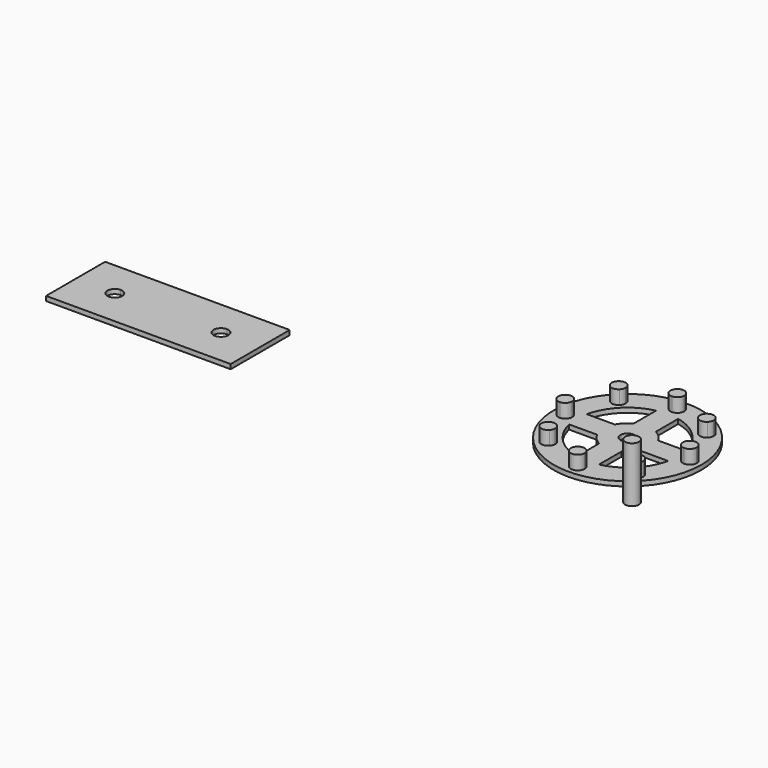
from build123d import *

# Parameters (mm, degrees)
F0_R      = 50.8
F0_R_2    = 4.826
F1_DEPTH  = 3.175
F3_DEPTH  = 3.175
F2_R      = 4.7625
F4_DEPTH  = 38.1
F6_DEPTH  = 9.525
F8_DEPTH  = 3.175
F11_DEPTH = 3.175


with BuildPart() as f1:
    # F0 (on Top) → F1 (new body)
    with BuildSketch(Plane.XY):
        Circle(F0_R)
        with BuildLine():
            ThreePointArc((-7.62, -34.0835917268), (-24.6957043329, -24.6957043329), (-34.0835917268, -7.62))
            Line((-34.0835917268, -7.62), (-14.8446440983, -7.62))
            ThreePointArc((-14.8446440983, -7.62), (-11.7988952535, -11.7988952535), (-7.62, -14.8446440983))
            Line((-7.62, -14.8446440983), (-7.62, -34.0835917268))
        make_face(mode=Mode.SUBTRACT)
        Circle(F0_R_2, mode=Mode.SUBTRACT)
        with BuildLine():
            Line((7.62, -34.0835917268), (7.62, -14.8446440983))
            ThreePointArc((7.62, -14.8446440983), (11.7988952535, -11.7988952535), (14.8446440983, -7.62))
            Line((14.8446440983, -7.62), (34.0835917268, -7.62))
            ThreePointArc((34.0835917268, -7.62), (24.6957043329, -24.6957043329), (7.62, -34.0835917268))
        make_face(mode=Mode.SUBTRACT)
        with BuildLine():
            Line((-7.62, 34.0835917268), (-7.62, 14.8446440983))
            ThreePointArc((-7.62, 14.8446440983), (-11.7988952535, 11.7988952535), (-14.8446440983, 7.62))
            Line((-14.8446440983, 7.62), (-34.0835917268, 7.62))
            ThreePointArc((-34.0835917268, 7.62), (-24.6957043329, 24.6957043329), (-7.62, 34.0835917268))
        make_face(mode=Mode.SUBTRACT)
        with BuildLine():
            ThreePointArc((7.62, 34.0835917268), (24.6957043329, 24.6957043329), (34.0835917268, 7.62))
            Line((34.0835917268, 7.62), (14.8446440983, 7.62))
            ThreePointArc((14.8446440983, 7.62), (11.7988952535, 11.7988952535), (7.62, 14.8446440983))
            Line((7.62, 14.8446440983), (7.62, 34.0835917268))
        make_face(mode=Mode.SUBTRACT)
        Circle(F0_R)
        with BuildLine():
            ThreePointArc((-7.62, -34.0835917268), (-24.6957043329, -24.6957043329), (-34.0835917268, -7.62))
            Line((-34.0835917268, -7.62), (-14.8446440983, -7.62))
            ThreePointArc((-14.8446440983, -7.62), (-11.7988952535, -11.7988952535), (-7.62, -14.8446440983))
            Line((-7.62, -14.8446440983), (-7.62, -34.0835917268))
        make_face(mode=Mode.SUBTRACT)
        Circle(F0_R_2, mode=Mode.SUBTRACT)
        with BuildLine():
            Line((7.62, -34.0835917268), (7.62, -14.8446440983))
            ThreePointArc((7.62, -14.8446440983), (11.7988952535, -11.7988952535), (14.8446440983, -7.62))
            Line((14.8446440983, -7.62), (34.0835917268, -7.62))
            ThreePointArc((34.0835917268, -7.62), (24.6957043329, -24.6957043329), (7.62, -34.0835917268))
        make_face(mode=Mode.SUBTRACT)
        with BuildLine():
            Line((-7.62, 34.0835917268), (-7.62, 14.8446440983))
            ThreePointArc((-7.62, 14.8446440983), (-11.7988952535, 11.7988952535), (-14.8446440983, 7.62))
            Line((-14.8446440983, 7.62), (-34.0835917268, 7.62))
            ThreePointArc((-34.0835917268, 7.62), (-24.6957043329, 24.6957043329), (-7.62, 34.0835917268))
        make_face(mode=Mode.SUBTRACT)
        with BuildLine():
            ThreePointArc((7.62, 34.0835917268), (24.6957043329, 24.6957043329), (34.0835917268, 7.62))
            Line((34.0835917268, 7.62), (14.8446440983, 7.62))
            ThreePointArc((14.8446440983, 7.62), (11.7988952535, 11.7988952535), (7.62, 14.8446440983))
            Line((7.62, 14.8446440983), (7.62, 34.0835917268))
        make_face(mode=Mode.SUBTRACT)
    extrude(amount=F1_DEPTH)

    # F5 (on face) → F6 (join)
    with BuildSketch(Plane.XY.offset(3.175)):
        with BuildLine():
            ThreePointArc((-42.5979166667, 4.7551447833), (-47.625, 0), (-42.5979166667, -4.7551447833))
            ThreePointArc((-42.5979166667, -4.7551447833), (-42.8625, 0), (-42.5979166667, 4.7551447833))
        make_face()
        with BuildLine():
            ThreePointArc((-42.5979166667, 4.7551447833), (-42.8625, 0), (-42.5979166667, -4.7551447833))
            ThreePointArc((-42.5979166667, -4.7551447833), (-39.4026239636, -3.2727150903), (-38.1, 0))
            ThreePointArc((-38.1, 0), (-39.4026239636, 3.2727150903), (-42.5979166667, 4.7551447833))
        make_face()
        with BuildLine():
            ThreePointArc((-30.3083644086, 30.3083644086), (-28.5777580732, 31.9453541186), (-26.7588806177, 33.4836708612))
            ThreePointArc((-26.7588806177, 33.4836708612), (-33.675960454, 33.675960454), (-33.4836708612, 26.7588806177))
            ThreePointArc((-33.4836708612, 26.7588806177), (-31.9453541186, 28.5777580732), (-30.3083644086, 30.3083644086))
        make_face()
        with BuildLine():
            ThreePointArc((-25.5458644086, 30.3083644086), (-25.8594419096, 32.0079216591), (-26.7588806177, 33.4836708612))
            ThreePointArc((-26.7588806177, 33.4836708612), (-28.5777580732, 31.9453541186), (-30.3083644086, 30.3083644086))
            Line((-30.3083644086, 30.3083644086), (-26.9407683632, 26.9407683632))
            ThreePointArc((-26.9407683632, 26.9407683632), (-25.908388135, 28.485834562), (-25.5458644086, 30.3083644086))
        make_face()
        with BuildLine():
            Line((-26.9407683632, 26.9407683632), (-30.3083644086, 30.3083644086))
            ThreePointArc((-30.3083644086, 30.3083644086), (-31.9453541186, 28.5777580732), (-33.4836708612, 26.7588806177))
            ThreePointArc((-33.4836708612, 26.7588806177), (-30.1760216344, 25.5477035679), (-26.9407683632, 26.9407683632))
        make_face()
        with BuildLine():
            ThreePointArc((-4.7551447833, 42.5979166667), (-2.38125, 42.7963030493), (0, 42.8625))
            Line((0, 42.8625), (0, 47.625))
            ThreePointArc((0, 47.625), (-3.4598760364, 46.1352150903), (-4.7551447833, 42.5979166667))
        make_face()
        with BuildLine():
            ThreePointArc((0, 42.8625), (2.38125, 42.7963030493), (4.7551447833, 42.5979166667))
            ThreePointArc((4.7551447833, 42.5979166667), (4.7606608407, 42.7301572258), (4.7625, 42.8625))
            ThreePointArc((4.7625, 42.8625), (3.3675960454, 46.2300960454), (0, 47.625))
            Line((0, 47.625), (0, 42.8625))
        make_face()
        with BuildLine():
            ThreePointArc((0, 38.1), (3.2727150903, 39.4026239636), (4.7551447833, 42.5979166667))
            ThreePointArc((4.7551447833, 42.5979166667), (2.38125, 42.7963030493), (0, 42.8625))
            Line((0, 42.8625), (0, 38.1))
        make_face()
        with BuildLine():
            Line((0, 38.1), (0, 42.8625))
            ThreePointArc((0, 42.8625), (-2.38125, 42.7963030493), (-4.7551447833, 42.5979166667))
            ThreePointArc((-4.7551447833, 42.5979166667), (-3.2727150903, 39.4026239636), (0, 38.1))
        make_face()
        with BuildLine():
            Line((26.9407683632, 26.9407683632), (30.3083644086, 30.3083644086))
            ThreePointArc((30.3083644086, 30.3083644086), (28.5777580732, 31.9453541186), (26.7588806177, 33.4836708612))
            ThreePointArc((26.7588806177, 33.4836708612), (25.5477035679, 30.1760216344), (26.9407683632, 26.9407683632))
        make_face()
        with BuildLine():
            ThreePointArc((30.3083644086, 30.3083644086), (31.9453541186, 28.5777580732), (33.4836708612, 26.7588806177))
            ThreePointArc((33.4836708612, 26.7588806177), (34.6559961335, 28.3642695974), (35.0708644086, 30.3083644086))
            ThreePointArc((35.0708644086, 30.3083644086), (32.0079216591, 34.7572869076), (26.7588806177, 33.4836708612))
            ThreePointArc((26.7588806177, 33.4836708612), (28.5777580732, 31.9453541186), (30.3083644086, 30.3083644086))
        make_face()
        with BuildLine():
            ThreePointArc((26.9407683632, 26.9407683632), (30.1760216344, 25.5477035679), (33.4836708612, 26.7588806177))
            ThreePointArc((33.4836708612, 26.7588806177), (31.9453541186, 28.5777580732), (30.3083644086, 30.3083644086))
            Line((30.3083644086, 30.3083644086), (26.9407683632, 26.9407683632))
        make_face()
        with BuildLine():
            ThreePointArc((42.5979166667, -4.7551447833), (42.7963030493, -2.38125), (42.8625, 0))
            ThreePointArc((42.8625, 0), (42.7963030493, 2.38125), (42.5979166667, 4.7551447833))
            ThreePointArc((42.5979166667, 4.7551447833), (38.1, 0), (42.5979166667, -4.7551447833))
        make_face()
        with BuildLine():
            ThreePointArc((42.5979166667, 4.7551447833), (42.7963030493, 2.38125), (42.8625, 0))
            ThreePointArc((42.8625, 0), (42.7963030493, -2.38125), (42.5979166667, -4.7551447833))
            ThreePointArc((42.5979166667, -4.7551447833), (46.1352150903, -3.4598760364), (47.625, 0))
            ThreePointArc((47.625, 0), (46.1352150903, 3.4598760364), (42.5979166667, 4.7551447833))
        make_face()
        with BuildLine():
            ThreePointArc((-33.4836708612, -26.7588806177), (-33.675960454, -33.675960454), (-26.7588806177, -33.4836708612))
            ThreePointArc((-26.7588806177, -33.4836708612), (-28.5777580732, -31.9453541186), (-30.3083644086, -30.3083644086))
            ThreePointArc((-30.3083644086, -30.3083644086), (-31.9453541186, -28.5777580732), (-33.4836708612, -26.7588806177))
        make_face()
        with BuildLine():
            ThreePointArc((-30.3083644086, -30.3083644086), (-28.5777580732, -31.9453541186), (-26.7588806177, -33.4836708612))
            ThreePointArc((-26.7588806177, -33.4836708612), (-25.8594419096, -32.0079216591), (-25.5458644086, -30.3083644086))
            ThreePointArc((-25.5458644086, -30.3083644086), (-25.908388135, -28.485834562), (-26.9407683632, -26.9407683632))
            Line((-26.9407683632, -26.9407683632), (-30.3083644086, -30.3083644086))
        make_face()
        with BuildLine():
            ThreePointArc((-33.4836708612, -26.7588806177), (-31.9453541186, -28.5777580732), (-30.3083644086, -30.3083644086))
            Line((-30.3083644086, -30.3083644086), (-26.9407683632, -26.9407683632))
            ThreePointArc((-26.9407683632, -26.9407683632), (-30.1760216344, -25.5477035679), (-33.4836708612, -26.7588806177))
        make_face()
        with BuildLine():
            ThreePointArc((-4.7551447833, -42.5979166667), (0, -42.8625), (4.7551447833, -42.5979166667))
            ThreePointArc((4.7551447833, -42.5979166667), (0, -38.1), (-4.7551447833, -42.5979166667))
        make_face()
        with BuildLine():
            ThreePointArc((4.7625, -42.8625), (4.7606608407, -42.7301572258), (4.7551447833, -42.5979166667))
            ThreePointArc((4.7551447833, -42.5979166667), (0, -42.8625), (-4.7551447833, -42.5979166667))
            ThreePointArc((-4.7551447833, -42.5979166667), (-0.1323427742, -47.6231608407), (4.7625, -42.8625))
        make_face()
        with BuildLine():
            ThreePointArc((26.7588806177, -33.4836708612), (28.5777580732, -31.9453541186), (30.3083644086, -30.3083644086))
            Line((30.3083644086, -30.3083644086), (26.9407683632, -26.9407683632))
            ThreePointArc((26.9407683632, -26.9407683632), (25.5477035679, -30.1760216344), (26.7588806177, -33.4836708612))
        make_face()
        with BuildLine():
            ThreePointArc((30.3083644086, -30.3083644086), (31.9453541186, -28.5777580732), (33.4836708612, -26.7588806177))
            ThreePointArc((33.4836708612, -26.7588806177), (30.1760216344, -25.5477035679), (26.9407683632, -26.9407683632))
            Line((26.9407683632, -26.9407683632), (30.3083644086, -30.3083644086))
        make_face()
        with BuildLine():
            ThreePointArc((35.0708644086, -30.3083644086), (34.6559961335, -28.3642695974), (33.4836708612, -26.7588806177))
            ThreePointArc((33.4836708612, -26.7588806177), (31.9453541186, -28.5777580732), (30.3083644086, -30.3083644086))
            ThreePointArc((30.3083644086, -30.3083644086), (28.5777580732, -31.9453541186), (26.7588806177, -33.4836708612))
            ThreePointArc((26.7588806177, -33.4836708612), (32.0079216591, -34.7572869076), (35.0708644086, -30.3083644086))
        make_face()
    extrude(amount=F6_DEPTH)


with BuildPart() as f3:
    # F2 (on Top) → F3 (new body)
    with BuildSketch(Plane.XY):
        with BuildLine():
            Line((-319.9716319146, -15.5874290968), (-346.9591319146, -15.5874290968))
            Line((-346.9591319146, -15.5874290968), (-346.9591319146, -66.3874290968))
            Line((-346.9591319146, -66.3874290968), (-319.9716319146, -66.3874290968))
            Line((-319.9716319146, -66.3874290968), (-319.9716319146, -46.0674290968))
            ThreePointArc((-319.9716319146, -46.0674290968), (-325.0516319146, -40.9874290968), (-319.9716319146, -35.9074290968))
            Line((-319.9716319146, -35.9074290968), (-319.9716319146, -15.5874290968))
        make_face()
        with BuildLine():
            Line((-246.9466319146, -15.5874290968), (-319.9716319146, -15.5874290968))
            Line((-319.9716319146, -15.5874290968), (-319.9716319146, -35.9074290968))
            ThreePointArc((-319.9716319146, -35.9074290968), (-316.3795294661, -37.3953266483), (-314.8916319146, -40.9874290968))
            ThreePointArc((-314.8916319146, -40.9874290968), (-316.3795294661, -44.5795315452), (-319.9716319146, -46.0674290968))
            Line((-319.9716319146, -46.0674290968), (-319.9716319146, -66.3874290968))
            Line((-319.9716319146, -66.3874290968), (-246.9466319146, -66.3874290968))
            Line((-246.9466319146, -66.3874290968), (-246.9466319146, -46.0674290968))
            ThreePointArc((-246.9466319146, -46.0674290968), (-252.0266319146, -40.9874290968), (-246.9466319146, -35.9074290968))
            Line((-246.9466319146, -35.9074290968), (-246.9466319146, -15.5874290968))
        make_face()
        with BuildLine():
            Line((-219.9591319146, -15.5874290968), (-246.9466319146, -15.5874290968))
            Line((-246.9466319146, -15.5874290968), (-246.9466319146, -35.9074290968))
            ThreePointArc((-246.9466319146, -35.9074290968), (-243.3545294661, -37.3953266483), (-241.8666319146, -40.9874290968))
            ThreePointArc((-241.8666319146, -40.9874290968), (-243.3545294661, -44.5795315452), (-246.9466319146, -46.0674290968))
            Line((-246.9466319146, -46.0674290968), (-246.9466319146, -66.3874290968))
            Line((-246.9466319146, -66.3874290968), (-219.9591319146, -66.3874290968))
            Line((-219.9591319146, -66.3874290968), (-219.9591319146, -15.5874290968))
        make_face()
    extrude(amount=F3_DEPTH)


with BuildPart() as f4:
    # F2 (on Top) → F4 (new body)
    with BuildSketch(Plane.XY):
        with Locations((45.0234785676, -52.3806475103)):
            Circle(F2_R)
    extrude(amount=F4_DEPTH)


with BuildPart() as f8:
    # F7 (on Top) → F8 (new body)
    with BuildSketch(Plane.XY):
        with BuildLine():
            Line((-183.2109061122, -127.57224737), (-259.4109061122, -127.57224737))
            Line((-259.4109061122, -127.57224737), (-259.4109061122, -148.14624737))
            ThreePointArc((-259.4109061122, -148.14624737), (-255.9984087862, -149.559750044), (-254.5849061122, -152.97224737))
            Line((-254.5849061122, -152.97224737), (-188.0369061122, -152.97224737))
            ThreePointArc((-188.0369061122, -152.97224737), (-186.6234034382, -149.559750044), (-183.2109061122, -148.14624737))
            Line((-183.2109061122, -148.14624737), (-183.2109061122, -127.57224737))
        make_face()
        with BuildLine():
            Line((-188.0369061122, -152.97224737), (-254.5849061122, -152.97224737))
            ThreePointArc((-254.5849061122, -152.97224737), (-255.9984087862, -156.384744696), (-259.4109061122, -157.79824737))
            Line((-259.4109061122, -157.79824737), (-259.4109061122, -178.37224737))
            Line((-259.4109061122, -178.37224737), (-183.2109061122, -178.37224737))
            Line((-183.2109061122, -178.37224737), (-183.2109061122, -157.79824737))
            ThreePointArc((-183.2109061122, -157.79824737), (-186.6234034382, -156.384744696), (-188.0369061122, -152.97224737))
        make_face()
        with BuildLine():
            Line((-264.2369061122, -152.97224737), (-284.8109061122, -152.97224737))
            Line((-284.8109061122, -152.97224737), (-284.8109061122, -178.37224737))
            Line((-284.8109061122, -178.37224737), (-259.4109061122, -178.37224737))
            Line((-259.4109061122, -178.37224737), (-259.4109061122, -157.79824737))
            ThreePointArc((-259.4109061122, -157.79824737), (-262.8234034382, -156.384744696), (-264.2369061122, -152.97224737))
        make_face()
        with BuildLine():
            Line((-259.4109061122, -127.57224737), (-284.8109061122, -127.57224737))
            Line((-284.8109061122, -127.57224737), (-284.8109061122, -152.97224737))
            Line((-284.8109061122, -152.97224737), (-264.2369061122, -152.97224737))
            ThreePointArc((-264.2369061122, -152.97224737), (-262.8234034382, -149.559750044), (-259.4109061122, -148.14624737))
            Line((-259.4109061122, -148.14624737), (-259.4109061122, -127.57224737))
        make_face()
        with BuildLine():
            Line((-157.8109061122, -127.57224737), (-183.2109061122, -127.57224737))
            Line((-183.2109061122, -127.57224737), (-183.2109061122, -148.14624737))
            ThreePointArc((-183.2109061122, -148.14624737), (-179.7984087862, -149.559750044), (-178.3849061122, -152.97224737))
            Line((-178.3849061122, -152.97224737), (-157.8109061122, -152.97224737))
            Line((-157.8109061122, -152.97224737), (-157.8109061122, -127.57224737))
        make_face()
        with BuildLine():
            Line((-157.8109061122, -178.37224737), (-157.8109061122, -152.97224737))
            Line((-157.8109061122, -152.97224737), (-178.3849061122, -152.97224737))
            ThreePointArc((-178.3849061122, -152.97224737), (-179.7984087862, -156.384744696), (-183.2109061122, -157.79824737))
            Line((-183.2109061122, -157.79824737), (-183.2109061122, -178.37224737))
            Line((-183.2109061122, -178.37224737), (-157.8109061122, -178.37224737))
        make_face()
    extrude(amount=F8_DEPTH)


with BuildPart() as f11:
    # F2 (on Top) → F11 (new body)
    with BuildSketch(Plane.XY):
        with BuildLine():
            Line((-319.9716319146, -15.5874290968), (-346.9591319146, -15.5874290968))
            Line((-346.9591319146, -15.5874290968), (-346.9591319146, -66.3874290968))
            Line((-346.9591319146, -66.3874290968), (-319.9716319146, -66.3874290968))
            Line((-319.9716319146, -66.3874290968), (-319.9716319146, -46.0674290968))
            ThreePointArc((-319.9716319146, -46.0674290968), (-325.0516319146, -40.9874290968), (-319.9716319146, -35.9074290968))
            Line((-319.9716319146, -35.9074290968), (-319.9716319146, -15.5874290968))
        make_face()
        with BuildLine():
            Line((-219.9591319146, -15.5874290968), (-246.9466319146, -15.5874290968))
            Line((-246.9466319146, -15.5874290968), (-246.9466319146, -35.9074290968))
            ThreePointArc((-246.9466319146, -35.9074290968), (-243.3545294661, -37.3953266483), (-241.8666319146, -40.9874290968))
            ThreePointArc((-241.8666319146, -40.9874290968), (-243.3545294661, -44.5795315452), (-246.9466319146, -46.0674290968))
            Line((-246.9466319146, -46.0674290968), (-246.9466319146, -66.3874290968))
            Line((-246.9466319146, -66.3874290968), (-219.9591319146, -66.3874290968))
            Line((-219.9591319146, -66.3874290968), (-219.9591319146, -15.5874290968))
        make_face()
        with BuildLine():
            Line((-246.9466319146, -15.5874290968), (-319.9716319146, -15.5874290968))
            Line((-319.9716319146, -15.5874290968), (-319.9716319146, -35.9074290968))
            ThreePointArc((-319.9716319146, -35.9074290968), (-316.3795294661, -37.3953266483), (-314.8916319146, -40.9874290968))
            ThreePointArc((-314.8916319146, -40.9874290968), (-316.3795294661, -44.5795315452), (-319.9716319146, -46.0674290968))
            Line((-319.9716319146, -46.0674290968), (-319.9716319146, -66.3874290968))
            Line((-319.9716319146, -66.3874290968), (-246.9466319146, -66.3874290968))
            Line((-246.9466319146, -66.3874290968), (-246.9466319146, -46.0674290968))
            ThreePointArc((-246.9466319146, -46.0674290968), (-252.0266319146, -40.9874290968), (-246.9466319146, -35.9074290968))
            Line((-246.9466319146, -35.9074290968), (-246.9466319146, -15.5874290968))
        make_face()
    extrude(amount=F11_DEPTH)


solid = Compound([f1.part, f4.part, f11.part])
